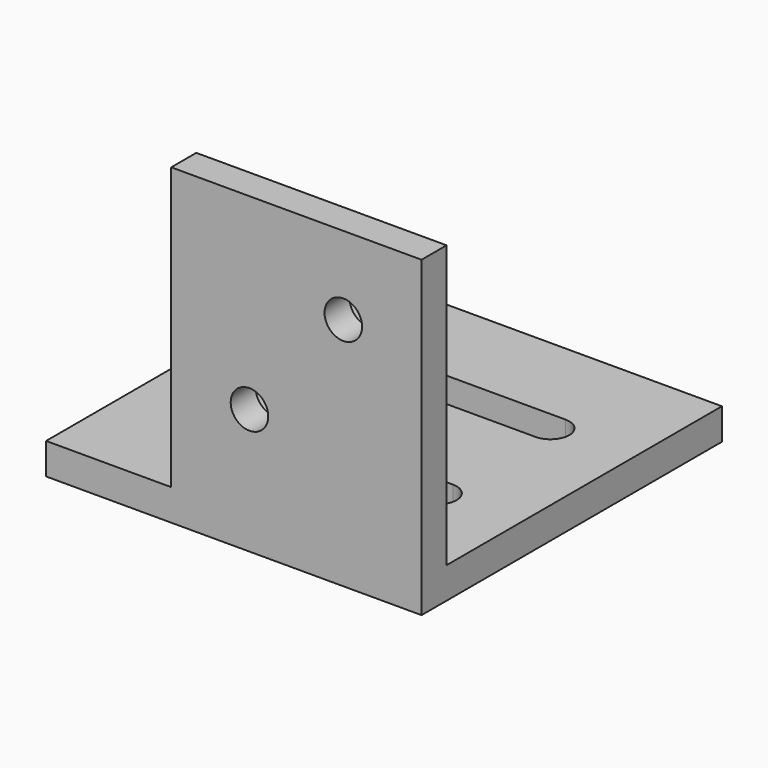
from build123d import *

# Parameters (mm, degrees)
F0_W     = 80
F0_H     = 100
F1_DEPTH = 5
F2_W     = 120
F2_H     = 10
F3_DEPTH = 120
F5_DEPTH = 25
F6_R     = 6
F7_DEPTH = 25


with BuildPart() as f1:
    # F0 (on Front) → F1 (new body, symmetric)
    with BuildSketch(Plane.XZ):
        Rectangle(F0_W, F0_H)
    extrude(amount=F1_DEPTH, both=True)

    # F2 (on face) → F3 (join)
    with BuildSketch(Plane.XZ.offset(5)):
        with Locations((-20, -45)):
            Rectangle(F2_W, F2_H)
    extrude(amount=-F3_DEPTH)

    # F4 (on face) → F5 (cut)
    with BuildSketch(Plane.XY.offset(-40)):
        with BuildLine():
            ThreePointArc((20, 79), (18.242641, 83.242641), (14, 85))
            Line((14, 85), (-54, 85))
            ThreePointArc((-54, 85), (-58.242641, 83.242641), (-60, 79))
            ThreePointArc((-60, 79), (-58.242641, 74.757359), (-54, 73))
            Line((-54, 73), (14, 73))
            ThreePointArc((14, 73), (18.242641, 74.757359), (20, 79))
        make_face()
        with BuildLine():
            Line((-54, 28), (14, 28))
            ThreePointArc((14, 28), (18.242641, 29.757359), (20, 34))
            ThreePointArc((20, 34), (18.242641, 38.242641), (14, 40))
            Line((14, 40), (-54, 40))
            ThreePointArc((-54, 40), (-58.242641, 38.242641), (-60, 34))
            ThreePointArc((-60, 34), (-58.242641, 29.757359), (-54, 28))
        make_face()
    extrude(amount=-F5_DEPTH, mode=Mode.SUBTRACT)

    # F6 (on face) → F7 (cut)
    with BuildSketch(Plane(origin=(0, 5, 0), x_dir=(-1, 0, 0), z_dir=(0, 1, 0))):
        with Locations((-15, 25)):
            Circle(F6_R)
        with Locations((15, -10)):
            Circle(F6_R)
    extrude(amount=-F7_DEPTH, mode=Mode.SUBTRACT)


solid = f1.part
